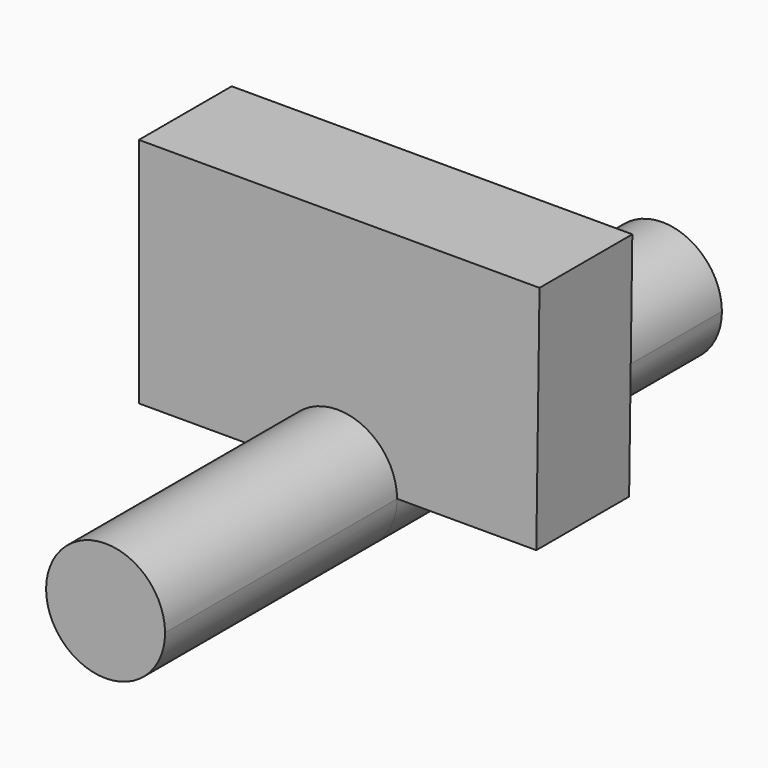
from build123d import *

# Parameters (mm, degrees)
F1_DEPTH = 19.05
F2_DEPTH = 3.175


with BuildPart() as f1:
    # F0 (on Front) → F1 (new body, symmetric)
    with BuildSketch(Plane.XZ):
        with BuildLine():
            ThreePointArc((-49.9293961003, 40.3302423656), (-46.67250067, 37.0733469353), (-43.4156052396, 40.3302423656))
            ThreePointArc((-43.4156052396, 40.3302423656), (-46.67250067, 43.5679623749), (-49.9293961003, 40.3302423656))
        make_face()
    extrude(amount=F1_DEPTH, both=True)


with BuildPart() as f2:
    # F0 (on Front) → F2 (new body, symmetric)
    with BuildSketch(Plane.XZ):
        with BuildLine():
            ThreePointArc((-49.9293961003, 40.3302423656), (-46.67250067, 43.5679623749), (-43.4156052396, 40.3302423656))
            ThreePointArc((-43.4156052396, 40.3302423656), (-46.67250067, 43.5871377959), (-49.9293961003, 40.3302423656))
        make_face()
        with BuildLine():
            ThreePointArc((-49.9293961003, 40.3302423656), (-46.67250067, 37.0733469353), (-43.4156052396, 40.3302423656))
            ThreePointArc((-43.4156052396, 40.3302423656), (-46.67250067, 43.5679623749), (-49.9293961003, 40.3302423656))
        make_face()
        with BuildLine():
            ThreePointArc((-49.9293961003, 40.3302423656), (-46.67250067, 43.5871377959), (-43.4156052396, 40.3302423656))
            Line((-43.4156052396, 40.3302423656), (-35.7956052396, 40.3302423656))
            Line((-35.7956052396, 40.3302423656), (-35.6199205491, 53.0302423656))
            Line((-35.6199205491, 53.0302423656), (-57.5493961003, 53.0302423656))
            Line((-57.5493961003, 53.0302423656), (-57.5493961003, 40.3302423656))
            Line((-57.5493961003, 40.3302423656), (-49.9293961003, 40.3302423656))
        make_face()
    extrude(amount=F2_DEPTH, both=True)


solid = Compound([f1.part, f2.part])
